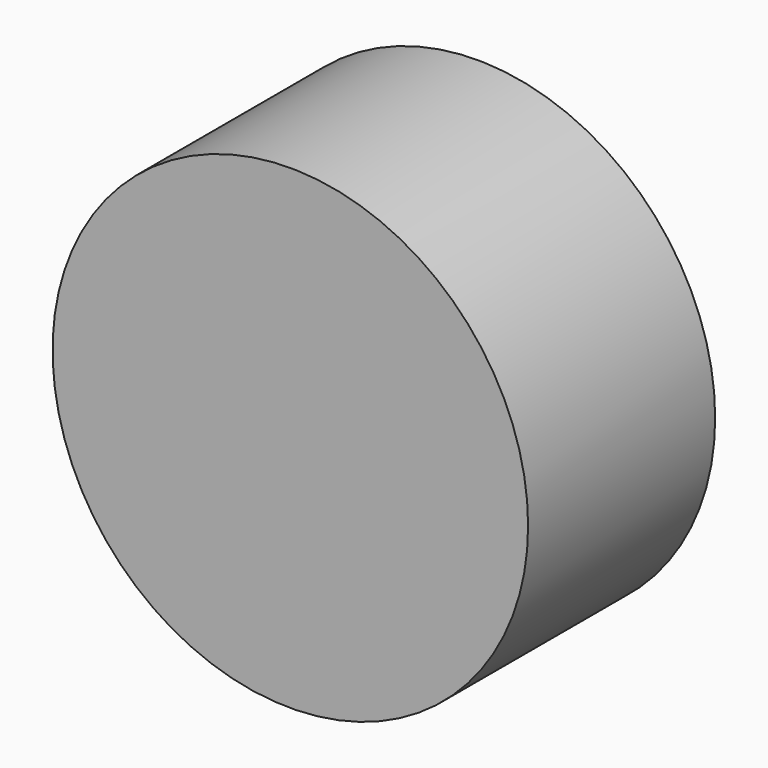
from build123d import *

# Parameters (mm, degrees)
F0_R     = 51.65308
F1_DEPTH = 50.8
F2_R     = 38.291887
F3_DEPTH = 50.038
F4_R     = 38.1


with BuildPart() as f1:
    # F0 (on Front) → F1 (new body)
    with BuildSketch(Plane.XZ):
        Circle(F0_R)
    extrude(amount=F1_DEPTH)

    # F2 (on face) → F3 (cut)
    with BuildSketch(Plane(origin=(0, 0, 0), x_dir=(-1, 0, 0), z_dir=(0, 1, 0))):
        Circle(F2_R)
    extrude(amount=-F3_DEPTH, mode=Mode.SUBTRACT)

    # F4
    f4_edges = [f1.edges().sort_by_distance(p)[0] for p in [
        (38.291887, -50.038, 0),
    ]]
    fillet(f4_edges, radius=F4_R)


solid = f1.part
